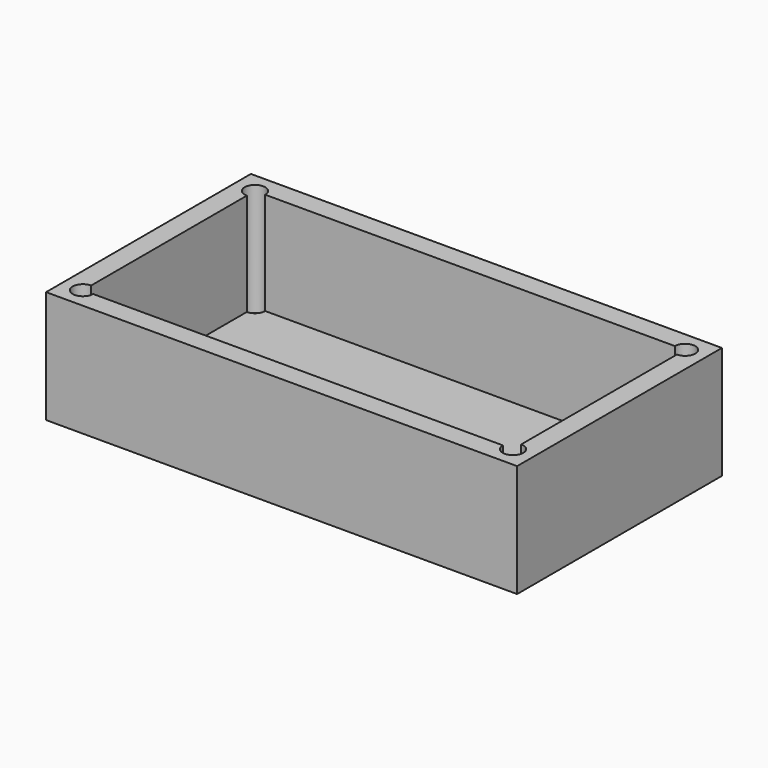
from build123d import *

# Parameters (mm, degrees)
F1_DEPTH = 0.5
F0_W     = 23
F0_H     = 12.5
F2_DEPTH = 5.5


with BuildPart() as f1:
    # F0 (on Top) → F1 (new body)
    with BuildSketch(Plane.XY):
        with BuildLine():
            Line((1.3369556665, 2.2427532598), (-18.6630443335, 2.2427532598))
            ThreePointArc((-18.6630443335, 2.2427532598), (-18.8094909429, 1.8891998692), (-19.1630443335, 1.7427532598))
            Line((-19.1630443335, 1.7427532598), (-19.1630443335, -7.7572467402))
            ThreePointArc((-19.1630443335, -7.7572467402), (-18.8094909429, -7.9036933496), (-18.6630443335, -8.2572467402))
            Line((-18.6630443335, -8.2572467402), (1.3369556665, -8.2572467402))
            ThreePointArc((1.3369556665, -8.2572467402), (1.4834022759, -7.9036933496), (1.8369556665, -7.7572467402))
            Line((1.8369556665, -7.7572467402), (1.8369556665, 1.7427532598))
            ThreePointArc((1.8369556665, 1.7427532598), (1.4834022759, 1.8891998692), (1.3369556665, 2.2427532598))
        make_face()
    extrude(amount=F1_DEPTH)

    # F0 (on Top) → F2 (join)
    with BuildSketch(Plane.XY):
        with Locations((-8.6630443335, -3.0072467402)):
            Rectangle(F0_W, F0_H)
        with BuildLine():
            ThreePointArc((-19.1630443335, 1.7427532598), (-19.5165977241, 2.5963066504), (-18.6630443335, 2.2427532598))
            Line((-18.6630443335, 2.2427532598), (1.3369556665, 2.2427532598))
            ThreePointArc((1.3369556665, 2.2427532598), (1.8369556665, 2.7427532598), (2.3369556665, 2.2427532598))
            ThreePointArc((2.3369556665, 2.2427532598), (2.1905090571, 1.8891998692), (1.8369556665, 1.7427532598))
            Line((1.8369556665, 1.7427532598), (1.8369556665, -7.7572467402))
            ThreePointArc((1.8369556665, -7.7572467402), (2.1905090571, -7.9036933496), (2.3369556665, -8.2572467402))
            ThreePointArc((2.3369556665, -8.2572467402), (1.8369556665, -8.7572467402), (1.3369556665, -8.2572467402))
            Line((1.3369556665, -8.2572467402), (-18.6630443335, -8.2572467402))
            ThreePointArc((-18.6630443335, -8.2572467402), (-19.5165977241, -8.6108001308), (-19.1630443335, -7.7572467402))
            Line((-19.1630443335, -7.7572467402), (-19.1630443335, 1.7427532598))
        make_face(mode=Mode.SUBTRACT)
    extrude(amount=F2_DEPTH)


solid = f1.part
